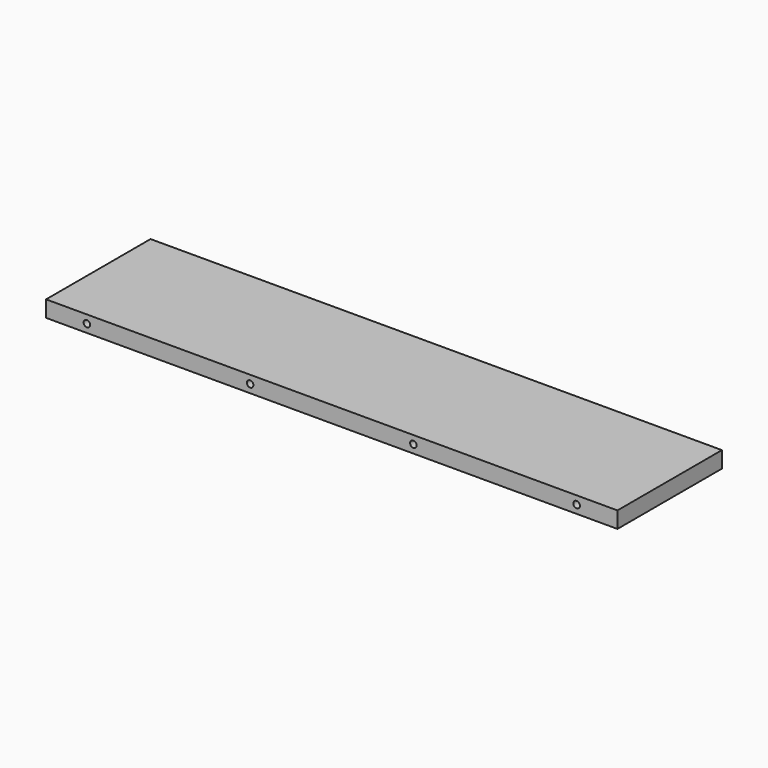
from build123d import *

# Parameters (mm, degrees)
F0_W     = 350
F0_H     = 80
F1_DEPTH = 10
F2_R     = 2
F3_DEPTH = 10
F4_R     = 2
F5_DEPTH = 10


with BuildPart() as f1:
    # F0 (on Top) → F1 (new body)
    with BuildSketch(Plane.XY):
        with Locations((-20.668104, -76.187617)):
            Rectangle(F0_W, F0_H)
    extrude(amount=F1_DEPTH)

    # F2 (on face) → F3 (cut)
    with BuildSketch(Plane.XZ.offset(116.187617)):
        with Locations((-170.668104, 5)):
            Circle(F2_R)
        with Locations((-70.668104, 5)):
            Circle(F2_R)
        with Locations((29.331896, 5)):
            Circle(F2_R)
        with Locations((129.331896, 5)):
            Circle(F2_R)
    extrude(amount=-F3_DEPTH, mode=Mode.SUBTRACT)

    # F4 (on face) → F5 (cut)
    with BuildSketch(Plane(origin=(0, -36.187617, 0), x_dir=(-1, 0, 0), z_dir=(0, 1, 0))):
        with Locations((170.668104, 5)):
            Circle(F4_R)
        with Locations((70.668104, 5)):
            Circle(F4_R)
        with Locations((-29.331896, 5)):
            Circle(F4_R)
        with Locations((-129.331896, 5)):
            Circle(F4_R)
    extrude(amount=-F5_DEPTH, mode=Mode.SUBTRACT)


solid = f1.part
